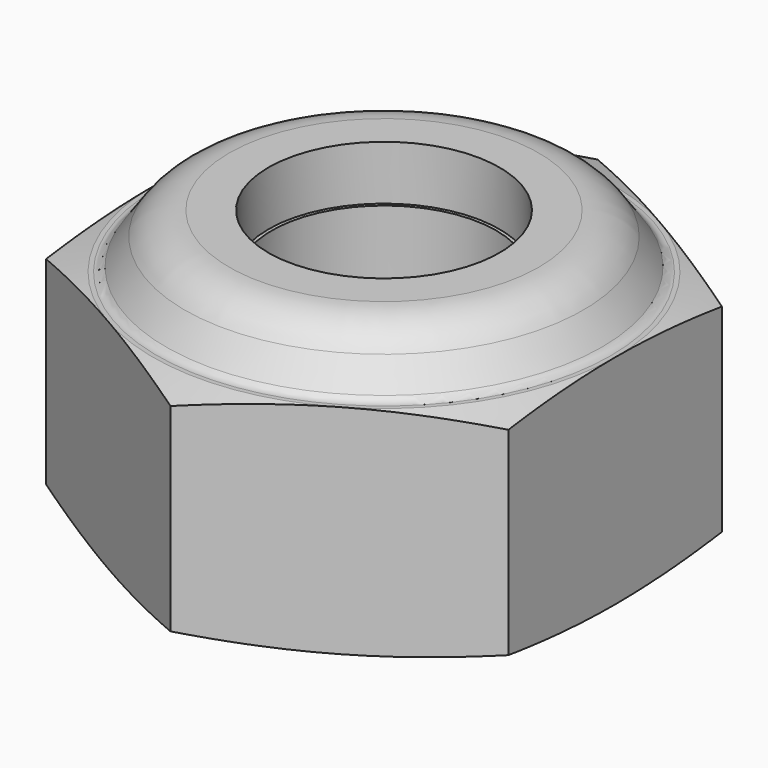
from build123d import *

# Parameters (mm, degrees)
F0_R     = 4.125
F1_DEPTH = 8


with BuildPart() as f1:
    # F0 (on Top) → F1 (new body)
    with BuildSketch(Plane.XY):
        Polygon((8.5, -4.9074772881), (8.5, 4.9074772881), (0, 9.8149545762), (-8.5, 4.9074772881), (-8.5, -4.9074772881), (0, -9.8149545762), align=None)
        Circle(F0_R, mode=Mode.SUBTRACT)
    extrude(amount=F1_DEPTH)

    # F5 (on 3pt) → F6 (revolve, cut)
    with BuildSketch(Plane(origin=(0, 0, 0), x_dir=(0.8660254038, 0.5, 0), z_dir=(0.5, -0.8660254038, 0))):
        Polygon((-15.315942407, 9.5), (-15.315942407, 6.1736737364), (-2.9019237886, 9.5), align=None)
        Polygon((-15.315942407, -1.5), (-2.9019237886, -1.5), (-15.315942407, 1.8263262636), align=None)
    revolve(axis=Axis((0, 0, 4.2626714858), (0, 0, 1)), mode=Mode.SUBTRACT)

    # F7 (on Front) → F8 (revolve)
    with BuildSketch(Plane.XZ):
        with BuildLine():
            Line((-8.34139258, 8), (-4.25, 8))
            Line((-4.25, 8), (-4.25, 10))
            Line((-4.25, 10), (-5.6916165822, 10))
            ThreePointArc((-5.6916165822, 10), (-6.6151138087, 9.7740216664), (-7.3299206708, 9.1471528727))
            Line((-7.3299206708, 9.1471528727), (-8.0137317623, 8.1705694255))
            ThreePointArc((-8.0137317623, 8.1705694255), (-8.1566931347, 8.0451956667), (-8.34139258, 8))
        make_face()
    revolve(axis=Axis((0, 0, 4.2626714858), (0, 0, 1)))


solid = f1.part
